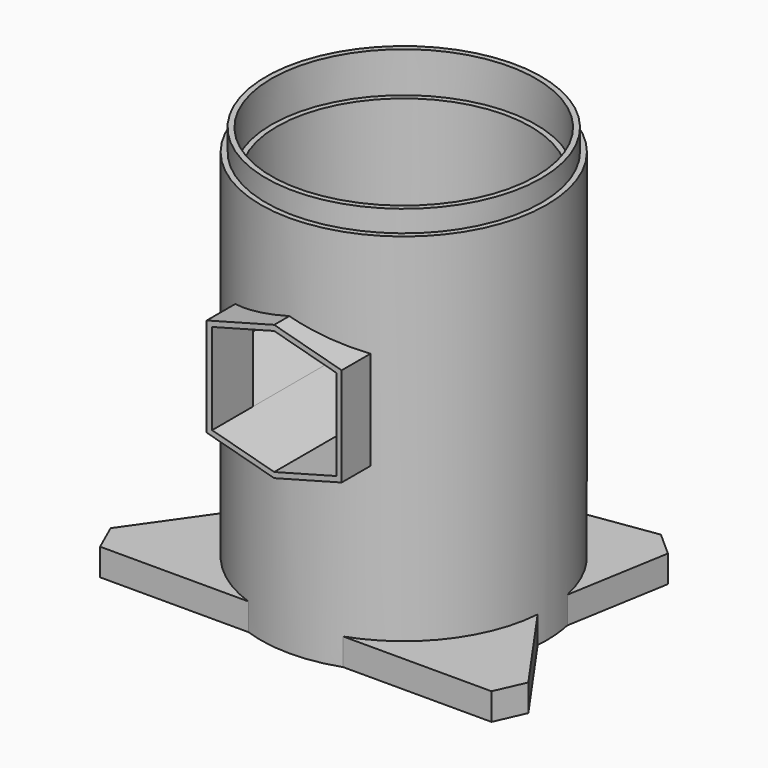
from build123d import *

# Parameters (mm, degrees)
PAD002_DEPTH  = 60
SKETCH005_R   = 90
SKETCH005_R_2 = 53
PAD004_DEPTH  = 100
PAD003_DEPTH  = 60
SKETCH007_R   = 53
PAD006_DEPTH  = 140
PAD005_DEPTH  = 60
PAD_DEPTH     = 10


with BuildPart() as body002:
    # Sketch003 → Pad002 (new body)
    with BuildSketch(Plane.XZ):
        Polygon((0, 108), (-23, 101.837169), (-23, 68.162831), (0, 62), (23, 68.162831), (23, 101.837169), align=None)
    extrude(amount=PAD002_DEPTH)


with BuildPart() as body:
    # Sketch → Revolution (revolve)
    with BuildSketch(Plane.XZ):
        Polygon((47, 135), (47, 0), (53, 0), (53, 142), (51, 142), (51, 150), (49, 150), (49, 135), align=None)
    revolve(axis=Axis((0, 0, 0), (0, 0, 1)))


with BuildPart() as body004:
    # Sketch005 → Pad004 (new body)
    with BuildSketch(Plane.XY):
        Circle(SKETCH005_R)
        Circle(SKETCH005_R_2, mode=Mode.SUBTRACT)
    extrude(amount=PAD004_DEPTH)


with BuildPart() as fusion:
    # Sketch004 → Pad003 (new body, symmetric)
    with BuildSketch(Plane.XZ):
        Polygon((0, 62), (-57.95555, 77.529143), (-57.95555, 0), (0, 0), (57.95555, 0), (57.95555, 77.529143), align=None)
    extrude(amount=PAD003_DEPTH, both=True)

    # Cut: cut Body004
    add(body004.part, mode=Mode.SUBTRACT)

    # Fusion: union Body
    add(body.part)


with BuildPart() as body006:
    # Sketch007 → Pad006 (new body)
    with BuildSketch(Plane.XY):
        Circle(SKETCH007_R)
    extrude(amount=PAD006_DEPTH)


with BuildPart() as cut002:
    # Sketch006 → Pad005 (new body)
    with BuildSketch(Plane.XZ):
        Polygon((0, 110), (-25, 103.30127), (-25, 66.69873), (0, 60), (25, 66.69873), (25, 103.30127), align=None)
    extrude(amount=PAD005_DEPTH)

    # Cut001: cut Body006
    add(body006.part, mode=Mode.SUBTRACT)

    # Fusion001: union Fusion
    add(fusion.part)

    # Cut002: cut Body002
    add(body002.part, mode=Mode.SUBTRACT)


with BuildPart() as body007:
    # Body007 base: copy of Cut002
    add(cut002.part)

    # Sketch008 → Pad (new body)
    with BuildSketch(Plane.XY):
        Polygon((77.38084, -39.037455), (72.5, -50), (-72.5, -50), (-77.38084, -39.037455), (-50, 0), (-58.436557, 49.283106), (-49.470337, 57.258499), (0, 50), (49.470337, 57.258499), (58.436557, 49.283106), (50, 0), align=None)
    extrude(amount=PAD_DEPTH)


with BuildPart() as fusion002:
    # Fusion002 base: copy of Cut002
    add(cut002.part)

    # Fusion002: union Body007
    add(body007.part)


solid = fusion002.part
